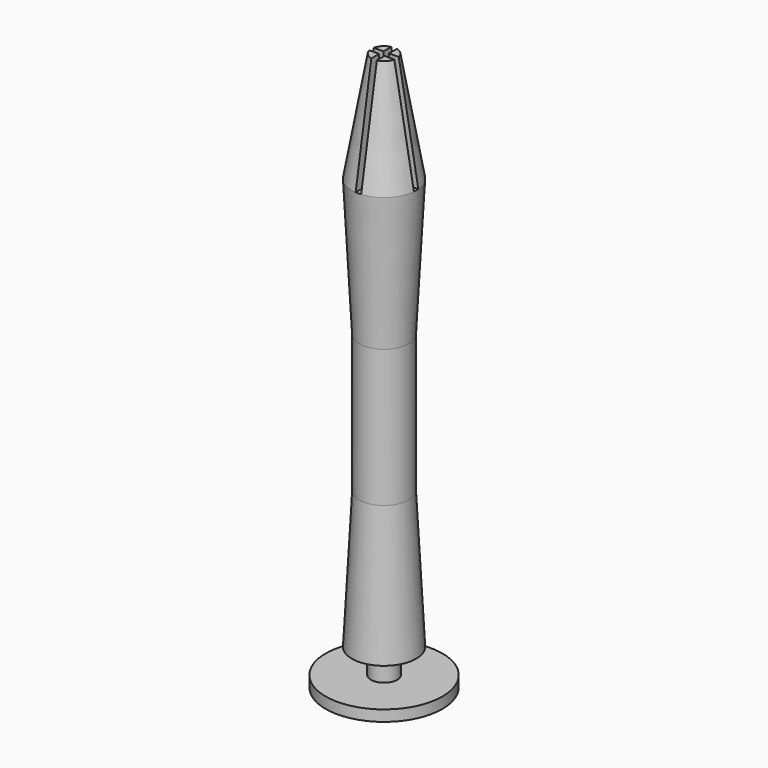
from build123d import *

# Parameters (mm, degrees)
F0_R      = 5.85
F1_DEPTH  = 25
F1_TAPER  = 3
F2_DEPTH  = 25
F2_FACE_R = 4.5398055179
F3_DEPTH  = 25
F3_TAPER  = -3
F4_R      = 2.4
F5_DEPTH  = 4.5
F3_FACE_R = 5.85
F6_DEPTH  = 20
F6_TAPER  = 10
F7_W      = 1
F7_H      = 1
F8_DEPTH  = 20
F9_R      = 10.6162207862
F9_R_2    = 2.4
F10_DEPTH = 2


with BuildPart() as f1:
    # F0 (on Top) → F1 (new body)
    with BuildSketch(Plane.XY):
        Circle(F0_R)
    extrude(amount=F1_DEPTH, taper=F1_TAPER)

    # F2 (add): a face of the model
    f2_faces = [f1.faces().sort_by_distance(p)[0] for p in [
        (0, 0, 25),
    ]]
    extrude(f2_faces, amount=F2_DEPTH)

    # F2_face (on face) → F3 (join)
    with BuildSketch(Plane.XY.offset(50)):
        Circle(F2_FACE_R)
    extrude(amount=F3_DEPTH, taper=F3_TAPER)

    # F4 (on face) → F5 (join)
    with BuildSketch(Plane(origin=(0, 0, 0), x_dir=(1, 0, 0), z_dir=(0, 0, -1))):
        Circle(F4_R)
    extrude(amount=F5_DEPTH)

    # F3_face (on face) → F6 (join)
    with BuildSketch(Plane.XY.offset(75)):
        Circle(F3_FACE_R)
    extrude(amount=F6_DEPTH, taper=F6_TAPER)

    # F7 (on face) → F8 (cut)
    with BuildSketch(Plane.XY.offset(95)):
        with BuildLine():
            Line((-0.5, 2.2690236148), (-0.5, 0.5))
            Line((-0.5, 0.5), (0.5, 0.5))
            Line((0.5, 0.5), (0.5, 2.2690236148))
            ThreePointArc((0.5, 2.2690236148), (0, 2.3234603858), (-0.5, 2.2690236148))
        make_face()
        with BuildLine():
            ThreePointArc((-2.2690236148, 0.5), (-2.3234603858, 0), (-2.2690236148, -0.5))
            Line((-2.2690236148, -0.5), (-0.5, -0.5))
            Line((-0.5, -0.5), (-0.5, 0.5))
            Line((-0.5, 0.5), (-2.2690236148, 0.5))
        make_face()
        with BuildLine():
            Line((0.5, -0.5), (-0.5, -0.5))
            Line((-0.5, -0.5), (-0.5, -2.2690236148))
            ThreePointArc((-0.5, -2.2690236148), (0, -2.3234603858), (0.5, -2.2690236148))
            Line((0.5, -2.2690236148), (0.5, -0.5))
        make_face()
        with BuildLine():
            Line((0.5, 0.5), (0.5, -0.5))
            Line((0.5, -0.5), (2.2690236148, -0.5))
            ThreePointArc((2.2690236148, -0.5), (2.3098111014, -0.2514773161), (2.3234603858, 0))
            ThreePointArc((2.3234603858, 0), (2.3098111014, 0.2514773161), (2.2690236148, 0.5))
            Line((2.2690236148, 0.5), (0.5, 0.5))
        make_face()
        Rectangle(F7_W, F7_H)
        with BuildLine():
            Line((-10.1169492777, 0.5), (-10.1169492777, -0.5))
            Line((-10.1169492777, -0.5), (-2.2690236148, -0.5))
            ThreePointArc((-2.2690236148, -0.5), (-2.3234603858, 0), (-2.2690236148, 0.5))
            Line((-2.2690236148, 0.5), (-10.1169492777, 0.5))
        make_face()
        with BuildLine():
            ThreePointArc((0.5, -2.2690236148), (0, -2.3234603858), (-0.5, -2.2690236148))
            Line((-0.5, -2.2690236148), (-0.5, -11.6822896525))
            Line((-0.5, -11.6822896525), (0.5, -11.6822896525))
            Line((0.5, -11.6822896525), (0.5, -2.2690236148))
        make_face()
        with BuildLine():
            ThreePointArc((2.3234603858, 0), (2.3098111014, -0.2514773161), (2.2690236148, -0.5))
            Line((2.2690236148, -0.5), (10.1169492777, -0.5))
            Line((10.1169492777, -0.5), (10.1169492777, 0.5))
            Line((10.1169492777, 0.5), (2.2690236148, 0.5))
            ThreePointArc((2.2690236148, 0.5), (2.3098111014, 0.2514773161), (2.3234603858, 0))
        make_face()
        with BuildLine():
            Line((-0.5, 11.6822896525), (-0.5, 2.2690236148))
            ThreePointArc((-0.5, 2.2690236148), (0, 2.3234603858), (0.5, 2.2690236148))
            Line((0.5, 2.2690236148), (0.5, 11.6822896525))
            Line((0.5, 11.6822896525), (-0.5, 11.6822896525))
        make_face()
    extrude(amount=-F8_DEPTH, mode=Mode.SUBTRACT)


with BuildPart() as f10:
    # F9 (on face) → F10 (new body)
    with BuildSketch(Plane(origin=(0, 0, -4.5), x_dir=(1, 0, 0), z_dir=(0, 0, -1))):
        Circle(F9_R)
        Circle(F9_R_2, mode=Mode.SUBTRACT)
        Circle(F9_R_2)
    extrude(amount=F10_DEPTH)


solid = Compound([f1.part, f10.part])
